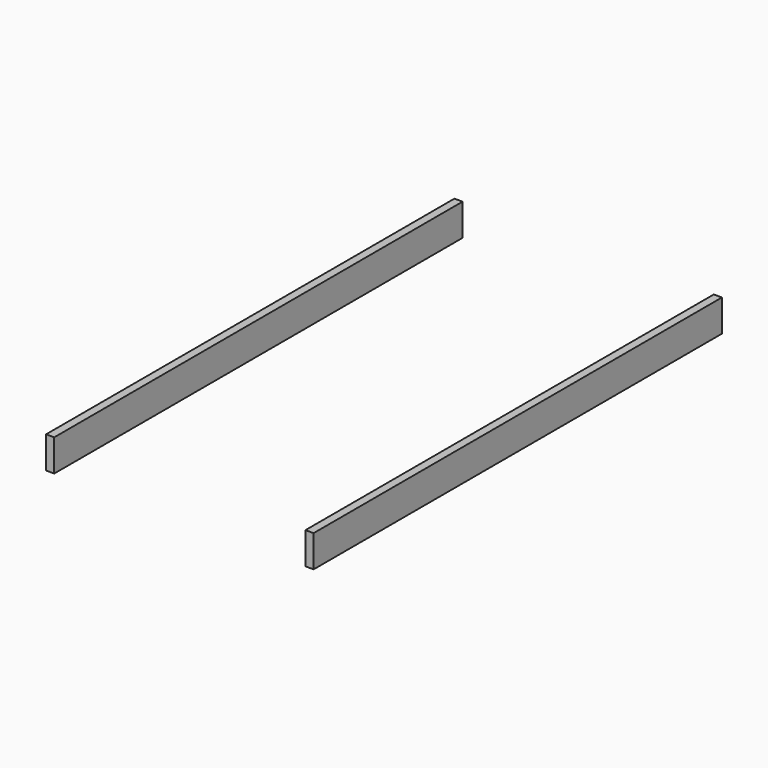
from build123d import *

# Parameters (mm, degrees)
F0_W     = 19.5
F0_H     = 76.2
F1_DEPTH = 1219


with BuildPart() as f1:
    # F0 (on Front) → F1 (new body)
    with BuildSketch(Plane.XZ):
        with Locations((309.75, -38.1)):
            Rectangle(F0_W, F0_H)
        with Locations((-309.75, -38.1)):
            Rectangle(F0_W, F0_H)
    extrude(amount=-F1_DEPTH)


solid = f1.part
